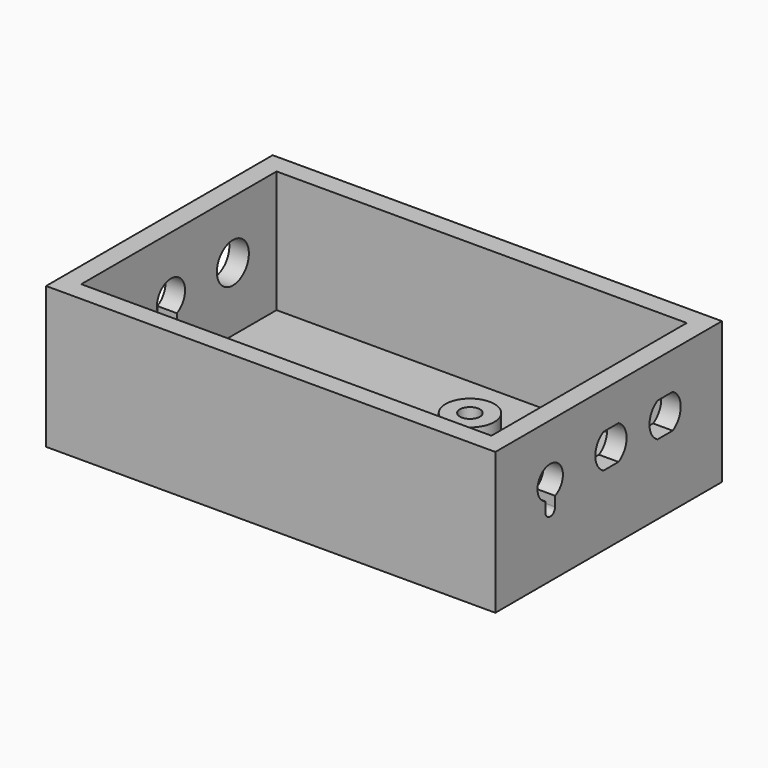
from build123d import *

# Parameters (mm, degrees)
F0_W     = 92
F0_H     = 58
F0_W_2   = 84
F0_H_2   = 50
F0_R     = 5
F1_DEPTH = 4
F2_DEPTH = 25
F3_DEPTH = 3
F5_DEPTH = 4
F6_R     = 4.1
F7_DEPTH = 4
F9_D     = 4.1


with BuildPart() as f1:
    # F0 (on Top) → F1 (new body)
    with BuildSketch(Plane.XY):
        with Locations((27, -15)):
            Rectangle(F0_W, F0_H)
        with Locations((27, -15)):
            Rectangle(F0_W_2, F0_H_2, mode=Mode.SUBTRACT)
        with Locations((27, -15)):
            Rectangle(F0_W_2, F0_H_2)
        with Locations((11, -27)):
            Circle(F0_R, mode=Mode.SUBTRACT)
        with Locations((35, -3)):
            Circle(F0_R, mode=Mode.SUBTRACT)
        with Locations((11, -27)):
            Circle(F0_R)
        with Locations((35, -3)):
            Circle(F0_R)
    extrude(amount=-F1_DEPTH)

    # F0 (on Top) → F2 (join)
    with BuildSketch(Plane.XY):
        with Locations((27, -15)):
            Rectangle(F0_W, F0_H)
        with Locations((27, -15)):
            Rectangle(F0_W_2, F0_H_2, mode=Mode.SUBTRACT)
    extrude(amount=F2_DEPTH)

    # F0 (on Top) → F3 (join)
    with BuildSketch(Plane.XY):
        with Locations((35, -3)):
            Circle(F0_R)
        with Locations((11, -27)):
            Circle(F0_R)
    extrude(amount=F3_DEPTH)

    # F4 (on face) → F5 (cut, through all)
    with BuildSketch(Plane.YZ.offset(73)):
        with BuildLine():
            Line((-28.704477, 8.884444), (-28.704477, 10.884444))
            ThreePointArc((-28.704477, 10.884444), (-29.954477, 17.134444), (-31.204477, 10.884444))
            Line((-31.204477, 10.884444), (-31.204477, 8.884444))
            ThreePointArc((-31.204477, 8.884444), (-29.954477, 7.634444), (-28.704477, 8.884444))
        make_face()
        with BuildLine():
            Line((-12.469048, 17.384444), (-16.342031, 17.384444))
            ThreePointArc((-16.342031, 17.384444), (-18.40554, 13.884444), (-16.342031, 10.384444))
            Line((-16.342031, 10.384444), (-12.469048, 10.384444))
            ThreePointArc((-12.469048, 10.384444), (-10.40554, 13.884444), (-12.469048, 17.384444))
        make_face()
        with BuildLine():
            Line((-2.4822, 10.384444), (1.390783, 10.384444))
            ThreePointArc((1.390783, 10.384444), (3.454292, 13.884444), (1.390783, 17.384444))
            Line((1.390783, 17.384444), (-2.4822, 17.384444))
            ThreePointArc((-2.4822, 17.384444), (-4.545708, 13.884444), (-2.4822, 10.384444))
        make_face()
    extrude(amount=-F5_DEPTH, mode=Mode.SUBTRACT)

    # F6 (on face) → F7 (cut, through all)
    with BuildSketch(Plane(origin=(-19, 0, 0), x_dir=(0, -1, 0), z_dir=(-1, 0, 0))):
        with Locations((1.185031, 13.089023)):
            Circle(F6_R)
        with BuildLine():
            Line((18.530197, 5.589023), (18.530197, 9.816409))
            ThreePointArc((18.530197, 9.816409), (17.030197, 16.689023), (15.530197, 9.816409))
            Line((15.530197, 9.816409), (15.530197, 5.589023))
            ThreePointArc((15.530197, 5.589023), (17.030197, 4.089023), (18.530197, 5.589023))
        make_face()
    extrude(amount=-F7_DEPTH, mode=Mode.SUBTRACT)

    # F9 (through all)
    with Locations(Plane.XY.offset(3)):
        with Locations((35, -3), (11, -27)):
            Hole(F9_D / 2)


solid = f1.part
